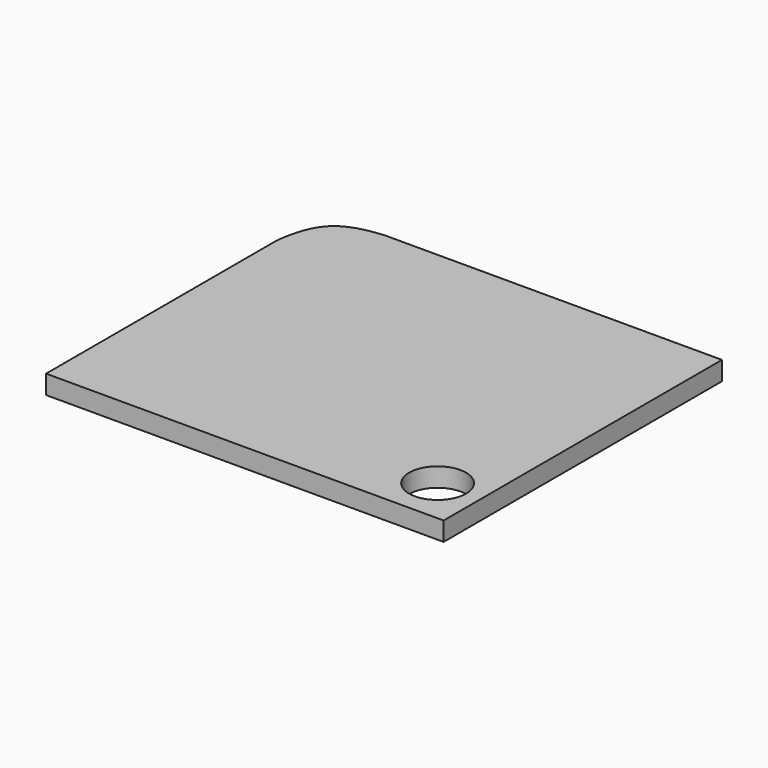
from build123d import *

# Parameters (mm, degrees)
F0_W     = 400
F0_H     = 350
F1_DEPTH = 19
F3_DEPTH = 19.001
F4_R     = 28.6407244268
F5_DEPTH = 19.0010001


with BuildPart() as f1:
    # F0 (on Top) → F1 (new body)
    with BuildSketch(Plane.XY):
        Rectangle(F0_W, F0_H)
    extrude(amount=F1_DEPTH)

    # F2 (on face) → F3 (cut, through all)
    with BuildSketch(Plane.XY.offset(19)):
        with BuildLine():
            add(Edge.make_bspline(
                [(-140, 175), (-157.942733111, 173.3225620191), (-189.2184929725, 165.8035915867), (-198.0018895699, 132.3529522536), (-200, 115)],
                knots=[0, 0, 0, 0, 0.4965617875, 1, 1, 1, 1], degree=3))
            Line((-140, 175), (-200, 175))
            Line((-200, 175), (-200, 115))
        make_face()
    extrude(amount=-F3_DEPTH, mode=Mode.SUBTRACT)

    # F4 (on face) → F5 (cut, through all)
    with BuildSketch(Plane.XY.offset(19)):
        with Locations((156.6020158332, -128.344308295)):
            Circle(F4_R)
    extrude(amount=-F5_DEPTH, mode=Mode.SUBTRACT)


solid = f1.part
